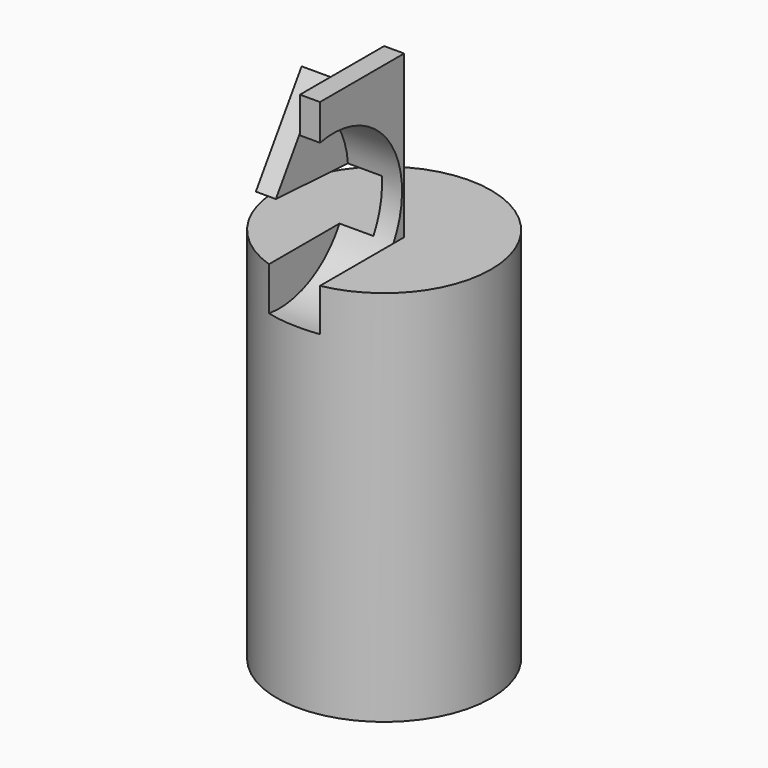
from build123d import *

# Parameters (mm, degrees)
F0_R     = 50.432717
F1_DEPTH = 177.8
F2_W     = 9.432334
F2_H     = 49.54281
F3_DEPTH = 76.2
F5_DEPTH = 25.4
F6_R     = 40.466301
F7_DEPTH = 25.4


with BuildPart() as f1:
    # F0 (on Top) → F1 (new body)
    with BuildSketch(Plane.XY):
        Circle(F0_R)
    extrude(amount=F1_DEPTH)

    # F2 (on face) → F3 (join)
    with BuildSketch(Plane.XY.offset(177.8)):
        with Locations((4.716167, -24.771405)):
            Rectangle(F2_W, F2_H)
    extrude(amount=F3_DEPTH)

    # F4 (on face) → F5 (join)
    with BuildSketch(Plane(origin=(0, 0, 0), x_dir=(0, -1, 0), z_dir=(-1, 0, 0))):
        Polygon((16.824646, 244.190742), (-5.220201, 200.336856), (43.780802, 203.172401), align=None)
    extrude(amount=F5_DEPTH)

    # F6 (on face) → F7 (cut)
    with BuildSketch(Plane.YZ.offset(9.432334)):
        with Locations((-41.694514, 197.413847)):
            Circle(F6_R)
    extrude(amount=-F7_DEPTH, mode=Mode.SUBTRACT)


solid = f1.part
